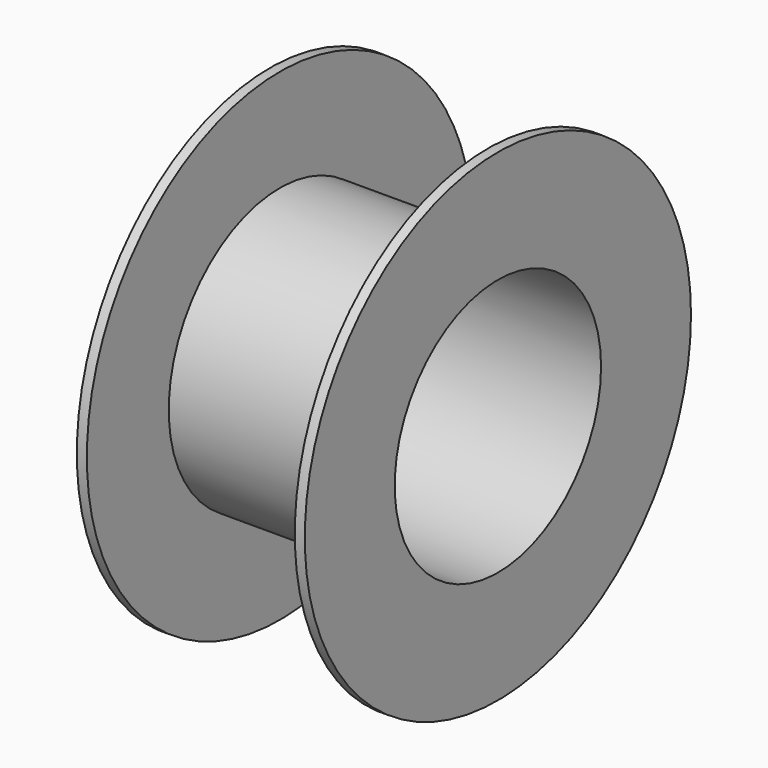
from build123d import *

# Parameters (mm, degrees)
F0_W = 57.7121339738
F0_H = 28.4524839371
F3_T = -2.54


with BuildPart() as f2:
    # F2: sweep along a path in F1
    with BuildLine(Plane.YZ) as f2_path:
        CenterArc((0, 46.8738339841), 46.8738339841, 0, 360)
    # F0 (on Front) → F2 (sweep)
    with BuildSketch(Plane.XZ):
        Rectangle(F0_W, F0_H)
    sweep(path=f2_path.line)

    # F3
    f3_openings = [f2.faces().sort_by_distance(p)[0] for p in [
        (0, -61.100076, 46.873834),
    ]]
    offset(amount=F3_T, openings=f3_openings)


solid = f2.part
